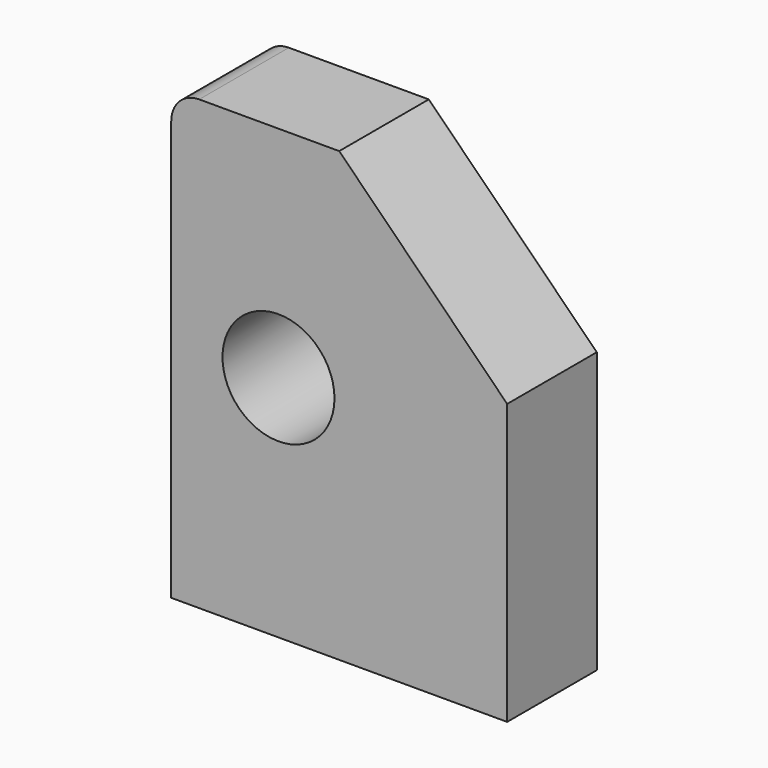
from build123d import *

# Parameters (mm, degrees)
F1_DEPTH = 25.4
F2_SIZE  = 38.1
F3_R     = 12.7
F4_DEPTH = 86.614


with BuildPart() as f1:
    # F0 (on Front) → F1 (new body)
    with BuildSketch(Plane.XZ):
        with BuildLine():
            Line((37.223521, 61.761211), (-32.626479, 61.761211))
            ThreePointArc((-32.626479, 61.761211), (-37.116607, 59.901339), (-38.976479, 55.411211))
            Line((-38.976479, 55.411211), (-38.976479, -39.838789))
            Line((-38.976479, -39.838789), (37.223521, -39.838789))
            Line((37.223521, -39.838789), (37.223521, 61.761211))
        make_face()
    extrude(amount=F1_DEPTH)

    # F2
    f2_edges = [f1.edges().sort_by_distance(p)[0] for p in [
        (37.223521, -12.7, 61.761211),
    ]]
    chamfer(f2_edges, length=F2_SIZE)

    # F3 (on face) → F4 (cut)
    with BuildSketch(Plane.XZ.offset(25.4)):
        with Locations((-14.649719, 12.020282)):
            Circle(F3_R)
    extrude(amount=-F4_DEPTH, mode=Mode.SUBTRACT)


solid = f1.part
